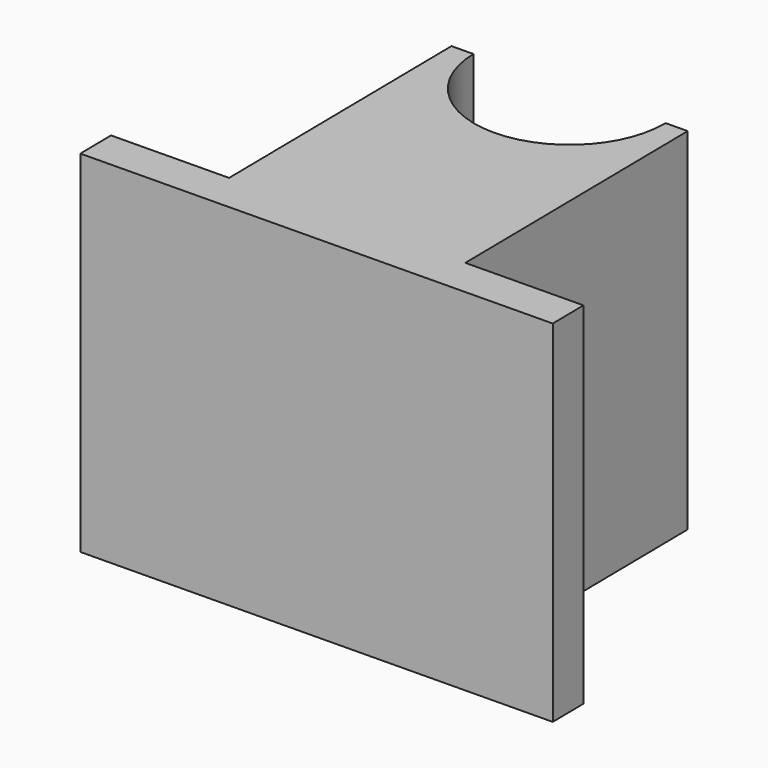
from build123d import *

# Parameters (mm, degrees)
F1_DEPTH = 114.3


with BuildPart() as f1:
    # F0 (on Top) → F1 (new body)
    with BuildSketch(Plane.XY):
        with BuildLine():
            Line((0, 0), (152.38726, 1.970525))
            Line((152.38726, 1.970525), (152.22305, 14.669463))
            Line((152.22305, 14.669463), (114.126235, 14.176832))
            Line((114.126235, 14.176832), (112.935709, 106.244135))
            Line((112.935709, 106.244135), (105.82064, 106.15213))
            ThreePointArc((105.82064, 106.15213), (105.822583, 105.951821), (105.82323, 105.751504))
            ThreePointArc((105.82323, 105.751504), (75.039211, 74.767815), (43.857148, 105.350878))
            Line((43.857148, 105.350878), (36.742079, 105.258873))
            Line((36.742079, 105.258873), (37.932605, 13.19157))
            Line((37.932605, 13.19157), (-0.16421, 12.698938))
            Line((-0.16421, 12.698938), (0, 0))
        make_face()
    extrude(amount=F1_DEPTH)


solid = f1.part
